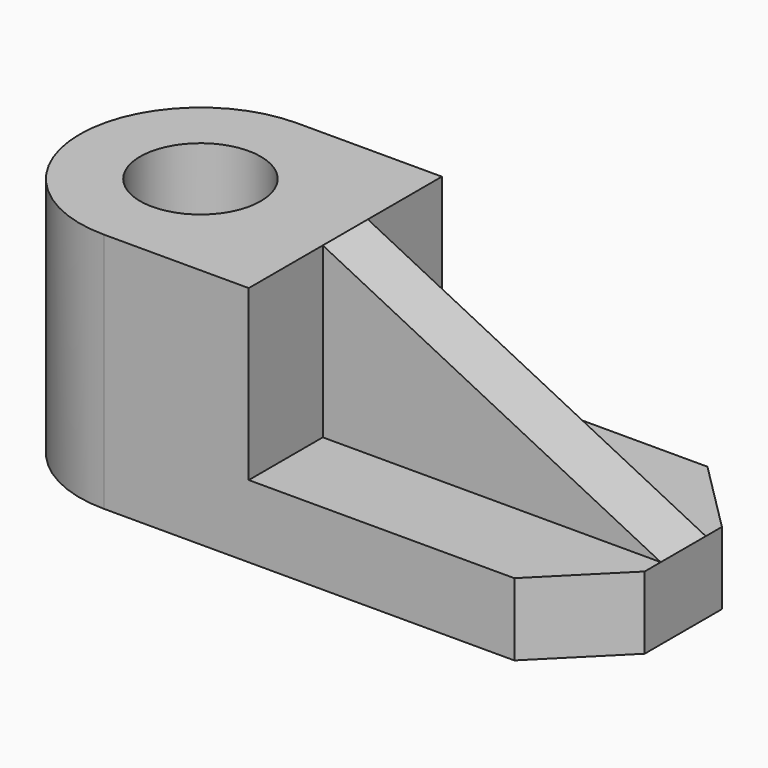
from build123d import *

# Parameters (mm, degrees)
F0_R     = 19.05
F1_DEPTH = 76.2
F2_DEPTH = 22.86
F3_DEPTH = 22.86
F0_W     = 106.68
F0_H     = 17.78
F4_DEPTH = 76.2
F6_DEPTH = 25.4


with BuildPart() as f1:
    # F0 (on Top) → F1 (new body)
    with BuildSketch(Plane.XY):
        with BuildLine():
            Line((45.72, 38.1), (0, 38.1))
            ThreePointArc((0, 38.1), (-38.1, 0), (0, -38.1))
            Line((0, -38.1), (45.72, -38.1))
            Line((45.72, -38.1), (45.72, -8.89))
            Line((45.72, -8.89), (45.72, 8.89))
            Line((45.72, 8.89), (45.72, 38.1))
        make_face()
        Circle(F0_R, mode=Mode.SUBTRACT)
    extrude(amount=F1_DEPTH)

    # F0 (on Top) → F2 (join)
    with BuildSketch(Plane.XY):
        Polygon((45.72, -8.89), (45.72, -38.1), (129.54, -38.1), (152.4, -15.24), (152.4, -8.89), align=None)
    extrude(amount=F2_DEPTH)

    # F0 (on Top) → F3 (join)
    with BuildSketch(Plane.XY):
        Polygon((129.54, 38.1), (45.72, 38.1), (45.72, 8.89), (152.4, 8.89), (152.4, 15.24), align=None)
    extrude(amount=F3_DEPTH)

    # F0 (on Top) → F4 (join)
    with BuildSketch(Plane.XY):
        with Locations((99.06, 0)):
            Rectangle(F0_W, F0_H)
    extrude(amount=F4_DEPTH)

    # F5 (on face) → F6 (cut)
    with BuildSketch(Plane.XZ.offset(8.89)):
        Polygon((152.4, 76.2), (45.72, 76.2), (152.4, 22.86), align=None)
    extrude(amount=-F6_DEPTH, mode=Mode.SUBTRACT)


solid = f1.part
